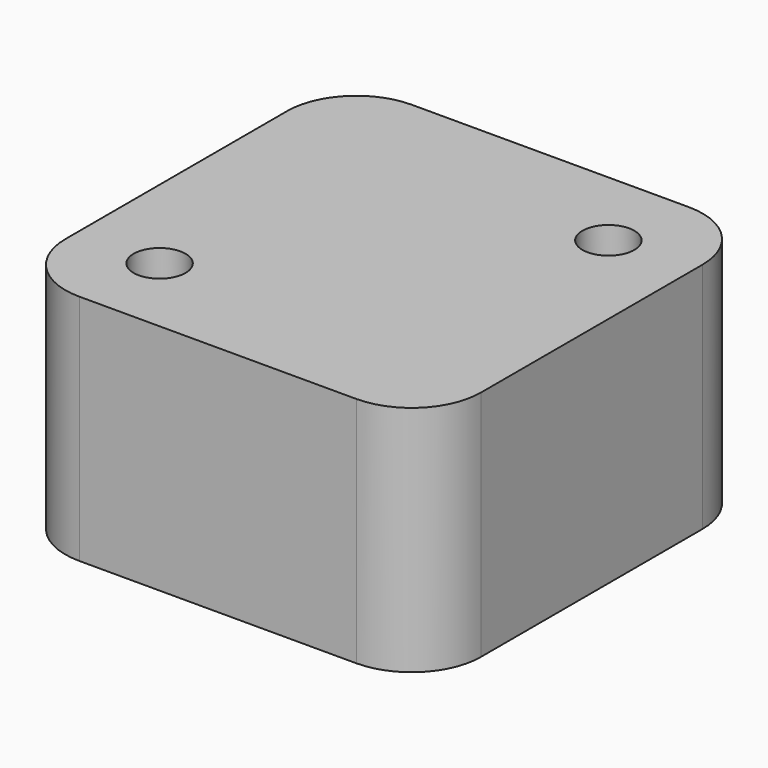
from build123d import *

# Parameters (mm, degrees)
F1_DEPTH = 12.7
F3_DEPTH = 21.336
F6_D     = 4.7625
F6_DEPTH = 3.175
F6_TIP   = 1.4307993491
F7_W     = 6.096
F7_H     = 22.606
F7_W_2   = 22.606
F7_H_2   = 6.096
F8_DEPTH = 2.54
F9_DEPTH = 2.54


with BuildPart() as f1:
    # F0 (on Top) → F1 (new body)
    with BuildSketch(Plane.XY):
        with BuildLine():
            Line((40.4105676174, 15.0449029118), (15.0105676174, 15.0449029118))
            ThreePointArc((15.0105676174, 15.0449029118), (10.5204395569, 13.1850309723), (8.6605676174, 8.6949029118))
            Line((8.6605676174, 8.6949029118), (8.6605676174, -16.7050970882))
            ThreePointArc((8.6605676174, -16.7050970882), (10.5204395569, -21.1952251488), (15.0105676174, -23.0550970882))
            Line((15.0105676174, -23.0550970882), (40.4105676174, -23.0550970882))
            ThreePointArc((40.4105676174, -23.0550970882), (44.900695678, -21.1952251488), (46.7605676174, -16.7050970882))
            Line((46.7605676174, -16.7050970882), (46.7605676174, 8.6949029118))
            ThreePointArc((46.7605676174, 8.6949029118), (44.900695678, 13.1850309723), (40.4105676174, 15.0449029118))
        make_face()
    extrude(amount=F1_DEPTH)

    # F2 (on face) → F3 (join)
    with BuildSketch(Plane.XY.offset(12.7)):
        with BuildLine():
            ThreePointArc((46.7605676174, 8.6949029118), (44.900695678, 13.1850309723), (40.4105676174, 15.0449029118))
            Line((40.4105676174, 15.0449029118), (15.0105676174, 15.0449029118))
            ThreePointArc((15.0105676174, 15.0449029118), (10.5204395569, 13.1850309723), (8.6605676174, 8.6949029118))
            Line((8.6605676174, 8.6949029118), (8.6605676174, -16.7050970882))
            ThreePointArc((8.6605676174, -16.7050970882), (10.5204395569, -21.1952251488), (15.0105676174, -23.0550970882))
            Line((15.0105676174, -23.0550970882), (40.4105676174, -23.0550970882))
            ThreePointArc((40.4105676174, -23.0550970882), (44.900695678, -21.1952251488), (46.7605676174, -16.7050970882))
            Line((46.7605676174, -16.7050970882), (46.7605676174, 8.6949029118))
        make_face()
        with BuildLine():
            ThreePointArc((10.2480676174, 7.1074029118), (12.1079395569, 11.5975309723), (16.5980676174, 13.4574029118))
            Line((16.5980676174, 13.4574029118), (38.8230676174, 13.4574029118))
            ThreePointArc((38.8230676174, 13.4574029118), (43.313195678, 11.5975309723), (45.1730676174, 7.1074029118))
            Line((45.1730676174, 7.1074029118), (45.1730676174, -15.1175970882))
            ThreePointArc((45.1730676174, -15.1175970882), (43.313195678, -19.6077251488), (38.8230676174, -21.4675970882))
            Line((38.8230676174, -21.4675970882), (16.5980676174, -21.4675970882))
            ThreePointArc((16.5980676174, -21.4675970882), (12.1079395569, -19.6077251488), (10.2480676174, -15.1175970882))
            Line((10.2480676174, -15.1175970882), (10.2480676174, 7.1074029118))
        make_face(mode=Mode.SUBTRACT)
    extrude(amount=-F3_DEPTH)

    # F6
    with Locations(Plane.XY.offset(12.7)):
        with Locations((16.2805676174, -15.4350970882), (39.1405676174, 7.4249029118)):
            Hole(F6_D / 2, depth=F6_DEPTH)
            with Locations((0, 0, -(F6_DEPTH + F6_TIP / 2))):  # 118° drill point
                Cone(0, F6_D / 2, F6_TIP, mode=Mode.SUBTRACT)

    # F7 (on face) → F8 (cut)
    with BuildSketch(Plane(origin=(0, 0, 0), x_dir=(1, 0, 0), z_dir=(0, 0, -1))):
        with Locations((16.1795334584, 1.2174902142)):
            Rectangle(F7_W, F7_H)
        with Locations((27.74332076, 16.611794867)):
            Rectangle(F7_W_2, F7_H_2)
        with Locations((24.0339235593, 1.2174902142)):
            Rectangle(F7_W, F7_H)
        with Locations((32.0157772671, 1.3521939175)):
            Rectangle(F7_W, F7_H)
        with Locations((39.7942726691, 1.2174902142)):
            Rectangle(F7_W, F7_H)
    extrude(amount=F8_DEPTH, mode=Mode.SUBTRACT)

    # F7 (on face) → F9 (cut)
    with BuildSketch(Plane(origin=(0, 0, 0), x_dir=(1, 0, 0), z_dir=(0, 0, -1))):
        with Locations((27.74332076, 16.611794867)):
            Rectangle(F7_W_2, F7_H_2)
        with Locations((16.1795334584, 1.2174902142)):
            Rectangle(F7_W, F7_H)
        with Locations((24.0339235593, 1.2174902142)):
            Rectangle(F7_W, F7_H)
        with Locations((32.0157772671, 1.3521939175)):
            Rectangle(F7_W, F7_H)
        with Locations((39.7942726691, 1.2174902142)):
            Rectangle(F7_W, F7_H)
    extrude(amount=-F9_DEPTH, mode=Mode.SUBTRACT)


solid = f1.part
